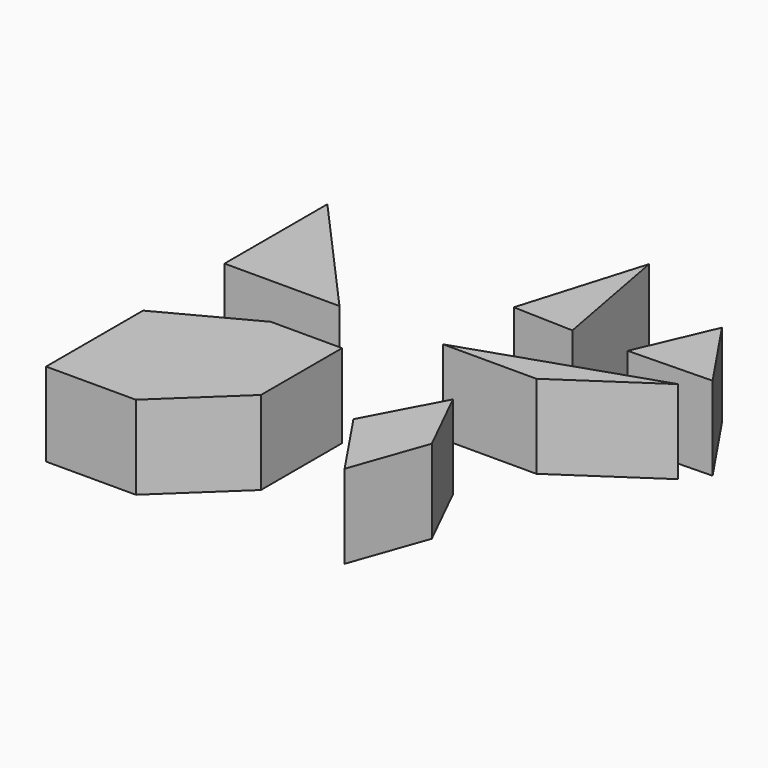
from build123d import *

# Parameters (mm, degrees)
F1_DEPTH = 25.4


with BuildPart() as f1:
    # F0 (on Top) → F1 (new body)
    with BuildSketch(Plane.XY):
        Polygon((-23.582781, 14.584286), (-58.474906, 53.611768), (-58.474906, 14.584286), align=None)
        Polygon((64.121678, 33.420142), (7.908416, 14.584286), (36.162201, 14.584286), align=None)
        Polygon((-31.234847, -16.318291), (-58.474906, -16.318291), (-58.474906, -53.107075), (-31.234847, -27.50208), align=None)
        Polygon((-31.234847, -1.897085), (-58.474906, -16.318291), (-31.234847, -16.318291), align=None)
        Polygon((-31.234847, -27.50208), (-58.474906, -53.107075), (-31.234847, -53.107075), align=None)
        Polygon((-9.603042, -1.897085), (-31.234847, -16.318291), (-31.234847, -27.50208), (-9.603042, -32.677032), align=None)
        Polygon((-31.234847, -1.897085), (-31.234847, -16.318291), (-9.603042, -1.897085), align=None)
        Polygon((-31.234847, -27.50208), (-31.234847, -53.107075), (-9.603042, -32.677032), align=None)
        Polygon((20.269446, 77.27237), (9.085657, 39.894968), (27.332891, 39.306346), align=None)
        Polygon((44.108577, 39.306346), (69.419257, 39.894968), (54.115124, 62.556855), align=None)
        Polygon((37.633754, -26.91346), (27.332891, -6.017433), (15.266174, -28.679321), (29.53985, -49.866813), align=None)
    extrude(amount=F1_DEPTH)


solid = f1.part
